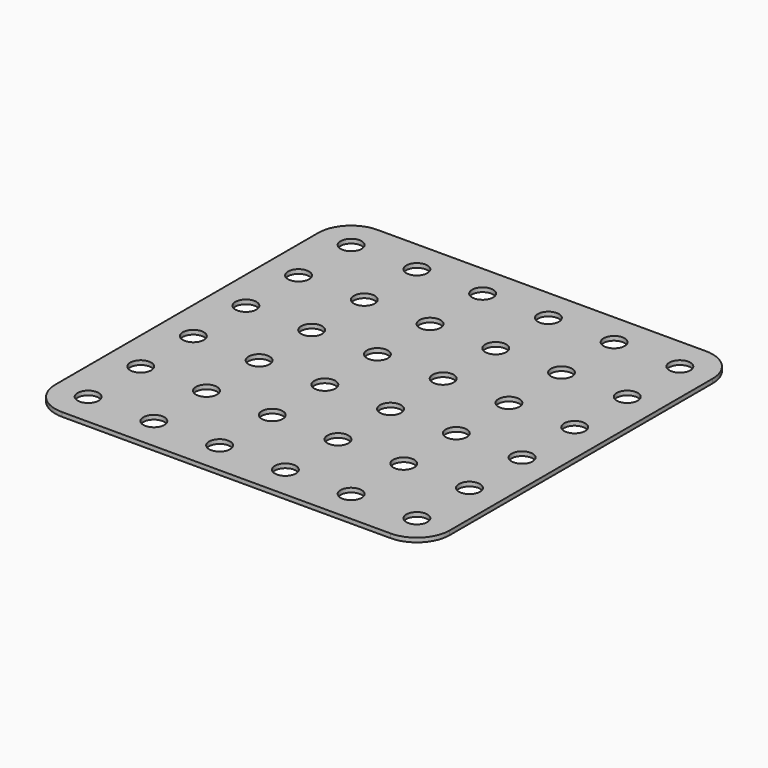
from build123d import *

# Parameters (mm, degrees)
F0_W     = 76.2
F0_H     = 76.2
F0_R     = 2.032
F1_DEPTH = 0.8128
F2_R     = 6.35


with BuildPart() as f1:
    # F0 (on Top) → F1 (new body)
    with BuildSketch(Plane.XY):
        Rectangle(F0_W, F0_H)
        with Locations((-31.75, -31.75)):
            Circle(F0_R, mode=Mode.SUBTRACT)
        with Locations((-19.05, -31.75)):
            Circle(F0_R, mode=Mode.SUBTRACT)
        with Locations((-6.35, -31.75)):
            Circle(F0_R, mode=Mode.SUBTRACT)
        with Locations((-31.75, -19.05)):
            Circle(F0_R, mode=Mode.SUBTRACT)
        with Locations((-31.75, -6.35)):
            Circle(F0_R, mode=Mode.SUBTRACT)
        with Locations((-19.05, -19.05)):
            Circle(F0_R, mode=Mode.SUBTRACT)
        with Locations((-6.35, -19.05)):
            Circle(F0_R, mode=Mode.SUBTRACT)
        with Locations((-19.05, -6.35)):
            Circle(F0_R, mode=Mode.SUBTRACT)
        with Locations((-6.35, -6.35)):
            Circle(F0_R, mode=Mode.SUBTRACT)
        with Locations((6.35, -31.75)):
            Circle(F0_R, mode=Mode.SUBTRACT)
        with Locations((19.05, -31.75)):
            Circle(F0_R, mode=Mode.SUBTRACT)
        with Locations((31.75, -31.75)):
            Circle(F0_R, mode=Mode.SUBTRACT)
        with Locations((6.35, -19.05)):
            Circle(F0_R, mode=Mode.SUBTRACT)
        with Locations((6.35, -6.35)):
            Circle(F0_R, mode=Mode.SUBTRACT)
        with Locations((19.05, -19.05)):
            Circle(F0_R, mode=Mode.SUBTRACT)
        with Locations((31.75, -19.05)):
            Circle(F0_R, mode=Mode.SUBTRACT)
        with Locations((19.05, -6.35)):
            Circle(F0_R, mode=Mode.SUBTRACT)
        with Locations((31.75, -6.35)):
            Circle(F0_R, mode=Mode.SUBTRACT)
        with Locations((-31.75, 6.35)):
            Circle(F0_R, mode=Mode.SUBTRACT)
        with Locations((-19.05, 6.35)):
            Circle(F0_R, mode=Mode.SUBTRACT)
        with Locations((-6.35, 6.35)):
            Circle(F0_R, mode=Mode.SUBTRACT)
        with Locations((-31.75, 19.05)):
            Circle(F0_R, mode=Mode.SUBTRACT)
        with Locations((-31.75, 31.75)):
            Circle(F0_R, mode=Mode.SUBTRACT)
        with Locations((-19.05, 19.05)):
            Circle(F0_R, mode=Mode.SUBTRACT)
        with Locations((-6.35, 19.05)):
            Circle(F0_R, mode=Mode.SUBTRACT)
        with Locations((-19.05, 31.75)):
            Circle(F0_R, mode=Mode.SUBTRACT)
        with Locations((-6.35, 31.75)):
            Circle(F0_R, mode=Mode.SUBTRACT)
        with Locations((6.35, 6.35)):
            Circle(F0_R, mode=Mode.SUBTRACT)
        with Locations((19.05, 6.35)):
            Circle(F0_R, mode=Mode.SUBTRACT)
        with Locations((31.75, 6.35)):
            Circle(F0_R, mode=Mode.SUBTRACT)
        with Locations((6.35, 19.05)):
            Circle(F0_R, mode=Mode.SUBTRACT)
        with Locations((6.35, 31.75)):
            Circle(F0_R, mode=Mode.SUBTRACT)
        with Locations((19.05, 19.05)):
            Circle(F0_R, mode=Mode.SUBTRACT)
        with Locations((31.75, 19.05)):
            Circle(F0_R, mode=Mode.SUBTRACT)
        with Locations((19.05, 31.75)):
            Circle(F0_R, mode=Mode.SUBTRACT)
        with Locations((31.75, 31.75)):
            Circle(F0_R, mode=Mode.SUBTRACT)
    extrude(amount=F1_DEPTH)

    # F2
    f2_edges = [f1.edges().sort_by_distance(p)[0] for p in [
        (-38.1, -38.1, 0.4064),
        (38.1, -38.1, 0.4064),
        (38.1, 38.1, 0.4064),
        (-38.1, 38.1, 0.4064),
    ]]
    fillet(f2_edges, radius=F2_R)


solid = f1.part
